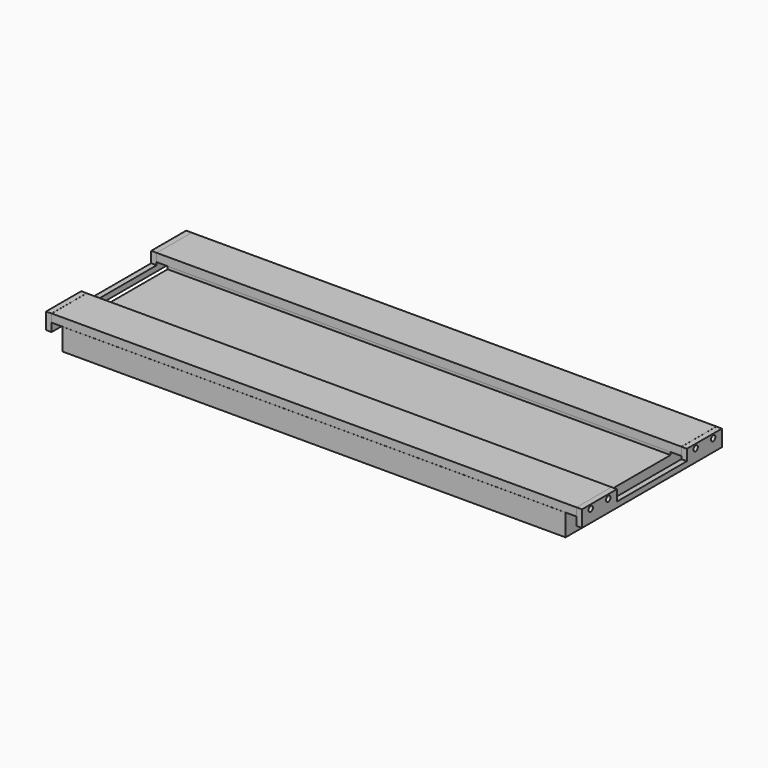
from build123d import *

# Parameters (mm, degrees)
F0_W      = 50.8
F0_H      = 9.398
F1_DEPTH  = 304.8
F0_H_2    = 9.525
F2_R      = 2.38125
F3_DEPTH  = 19.05
F4_R      = 2.38125
F5_DEPTH  = 19.05
F6_R      = 3.175
F6_W      = 50.8
F6_H      = 9.525
F7_DEPTH  = 6.35
F8_R      = 3.175
F9_DEPTH  = 6.35
F12_DEPTH = 584.2


with BuildPart() as f1:
    # F0 (on Right) → F1 (new body, symmetric)
    with BuildSketch(Plane.YZ):
        with Locations((-76.2, 0)):
            Rectangle(F0_W, F0_H)
    extrude(amount=F1_DEPTH, both=True)


with BuildPart() as f1b:
    # F0 (on Right) → F1, piece 2 (new body, symmetric)
    with BuildSketch(Plane.YZ):
        with Locations((76.2, 0)):
            Rectangle(F0_W, F0_H_2)
    extrude(amount=F1_DEPTH, both=True)


with BuildPart() as f3_tool:
    # F2 (on face) → F3 (new body)
    with BuildSketch(Plane.YZ.offset(304.8)):
        with Locations((-88.9, 0)):
            Circle(F2_R)
        with Locations((-63.5, 0)):
            Circle(F2_R)
        with Locations((63.5, 0)):
            Circle(F2_R)
        with Locations((88.9, 0)):
            Circle(F2_R)
    extrude(amount=-F3_DEPTH)


with BuildPart() as f1_1:
    add(f1.part)

    # F3: cut by f3_tool
    add(f3_tool.part, mode=Mode.SUBTRACT)


with BuildPart() as f1b_1:
    add(f1b.part)

    # F3: cut by f3_tool
    add(f3_tool.part, mode=Mode.SUBTRACT)


with BuildPart() as f5_tool:
    # F4 (on face) → F5 (new body)
    with BuildSketch(Plane(origin=(-304.8, 0, 0), x_dir=(0, -1, 0), z_dir=(-1, 0, 0))):
        with Locations((-88.9, 0)):
            Circle(F4_R)
        with Locations((-63.5, 0)):
            Circle(F4_R)
        with Locations((63.5, 0)):
            Circle(F4_R)
        with Locations((88.9, 0)):
            Circle(F4_R)
    extrude(amount=-F5_DEPTH)


with BuildPart() as f1_2:
    add(f1_1.part)

    # F5: cut by f5_tool
    add(f5_tool.part, mode=Mode.SUBTRACT)


with BuildPart() as f1b_2:
    add(f1b_1.part)

    # F5: cut by f5_tool
    add(f5_tool.part, mode=Mode.SUBTRACT)


with BuildPart() as f7:
    # F6 (on face) → F7 (new body)
    with BuildSketch(Plane(origin=(-304.8, 0, 0), x_dir=(0, -1, 0), z_dir=(-1, 0, 0))):
        Polygon((-50.8, -4.7625), (-101.6, -4.7625), (-101.6, -14.2875), (101.8309146166, -14.2875), (101.8309146166, 4.7625), (50.7380478084, 4.7625), (50.7380478084, -7.9375), (-50.8, -7.9375), align=None)
        with Locations((63.5, 0)):
            Circle(F6_R, mode=Mode.SUBTRACT)
        with Locations((88.9, 0)):
            Circle(F6_R, mode=Mode.SUBTRACT)
        with Locations((-76.2, 0)):
            Rectangle(F6_W, F6_H)
        with Locations((-88.9, 0)):
            Circle(F6_R, mode=Mode.SUBTRACT)
        with Locations((-63.5, 0)):
            Circle(F6_R, mode=Mode.SUBTRACT)
    extrude(amount=F7_DEPTH)


with BuildPart() as f9:
    # F8 (on face) → F9 (new body)
    with BuildSketch(Plane.YZ.offset(304.8)):
        Polygon((-50.8, 4.699), (-101.6, 4.699), (-101.6, -14.351), (101.6, -14.351), (101.6, 4.699), (50.8, 4.699), (50.8, -8.001), (-50.8, -8.001), align=None)
        with Locations((-88.9, 0)):
            Circle(F8_R, mode=Mode.SUBTRACT)
        with Locations((-63.5, 0)):
            Circle(F8_R, mode=Mode.SUBTRACT)
        with Locations((63.5, 0)):
            Circle(F8_R, mode=Mode.SUBTRACT)
        with Locations((88.9, 0)):
            Circle(F8_R, mode=Mode.SUBTRACT)
    extrude(amount=F9_DEPTH)


with BuildPart() as f12:
    # F11 (on offset) → F12 (new body)
    with BuildSketch(Plane.YZ.offset(-292.1)):
        Polygon((-101.6, -30.1625), (101.6, -30.1625), (101.6, -4.7625), (50.8, -4.7625), (50.8, -7.9375), (-50.8, -7.9375), (-50.8, -4.7625), (-101.6, -4.7625), align=None)
    extrude(amount=F12_DEPTH)


solid = Compound([f1_2.part, f1b_2.part, f7.part, f9.part, f12.part])
